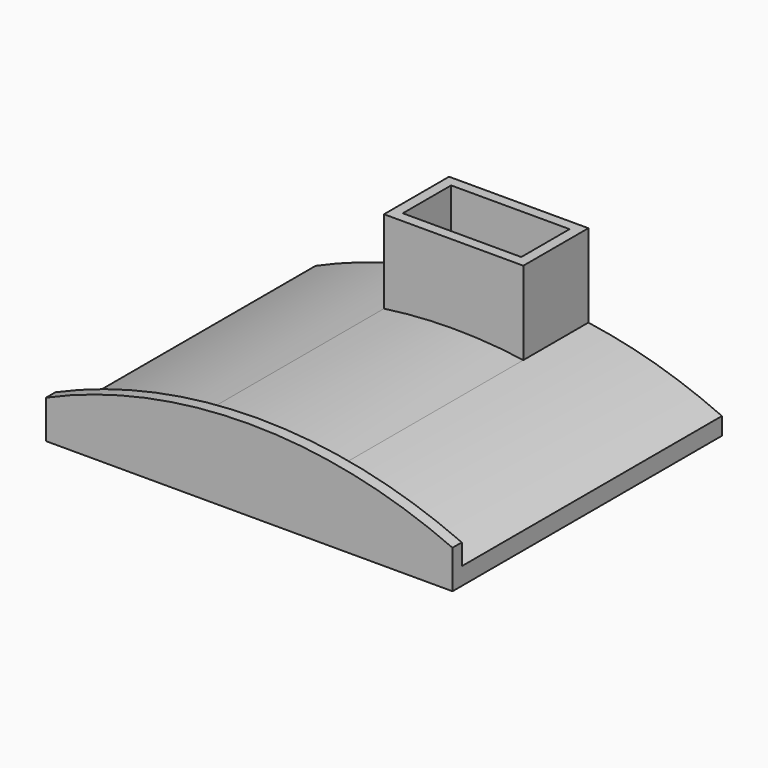
from build123d import *

# Parameters (mm, degrees)
F1_DEPTH = 58
F2_DEPTH = 14
F4_DEPTH = 2
F5_W     = 20.4
F5_H     = 10.4
F6_DEPTH = 22


with BuildPart() as f1:
    # F0 (on Front) → F1 (new body)
    with BuildSketch(Plane.XZ):
        with BuildLine():
            Line((35, -3), (35, 0))
            ThreePointArc((35, 0), (23.7368009031, 4.158739596), (12, 6.6890110215))
            Line((12, 6.6890110215), (12, 0))
            Line((12, 0), (-12, 0))
            Line((-12, 0), (-12, 6.6890110215))
            ThreePointArc((-12, 6.6890110215), (-23.7368009031, 4.158739596), (-35, 0))
            Line((-35, 0), (-35, -3))
            Line((-35, -3), (35, -3))
        make_face()
        with BuildLine():
            Line((12, 0), (12, 6.6890110215))
            ThreePointArc((12, 6.6890110215), (0, 7.5403330759), (-12, 6.6890110215))
            Line((-12, 6.6890110215), (-12, 0))
            Line((-12, 0), (12, 0))
        make_face()
        with BuildLine():
            Line((12, 0), (12, 6.6890110215))
            ThreePointArc((12, 6.6890110215), (0, 7.5403330759), (-12, 6.6890110215))
            Line((-12, 6.6890110215), (-12, 0))
            Line((-12, 0), (12, 0))
        make_face()
    extrude(amount=F1_DEPTH)

    # F0 (on Front) → F2 (join)
    with BuildSketch(Plane.XZ):
        with BuildLine():
            ThreePointArc((-12, 6.6890110215), (0, 7.5403330759), (12, 6.6890110215))
            Line((12, 6.6890110215), (12, 21))
            Line((12, 21), (-12, 21))
            Line((-12, 21), (-12, 6.6890110215))
        make_face()
    extrude(amount=F2_DEPTH)

    # F3 (on face) → F4 (join)
    with BuildSketch(Plane.XZ.offset(58)):
        with BuildLine():
            Line((35, 0), (35, 3.6027812406))
            ThreePointArc((35, 3.6027812406), (0, 11), (-35, 3.6027812406))
            Line((-35, 3.6027812406), (-35, 0))
            ThreePointArc((-35, 0), (0, 7.5403330759), (35, 0))
        make_face()
    extrude(amount=-F4_DEPTH)

    # F5 (on face) → F6 (cut)
    with BuildSketch(Plane.XY.offset(21)):
        with Locations((0, -7)):
            Rectangle(F5_W, F5_H)
    extrude(amount=-F6_DEPTH, mode=Mode.SUBTRACT)


solid = f1.part
